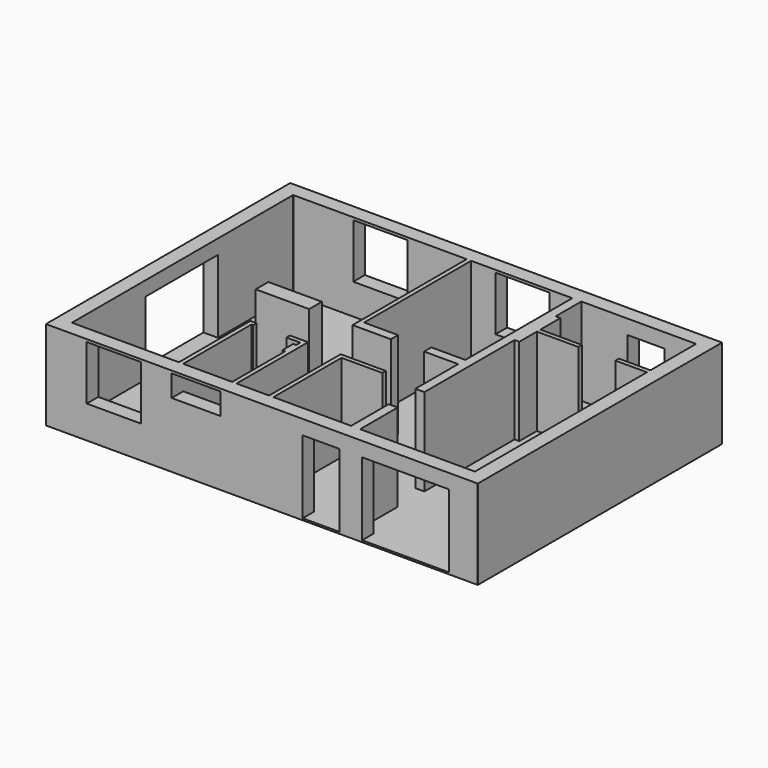
from build123d import *

# Parameters (mm, degrees)
F0_W     = 102
F0_H     = 40
F0_W_2   = 240
F0_W_3   = 94
F0_H_2   = 25
F0_W_4   = 148
F0_W_5   = 92
F0_W_6   = 120
F0_H_3   = 19
F0_W_7   = 25
F0_H_4   = 92
F0_H_5   = 12
F0_W_8   = 12
F0_H_6   = 370
F0_W_9   = 87.5
F0_H_7   = 130
F0_W_10  = 212.5
F0_W_11  = 115
F0_W_12  = 150
F0_W_13  = 135.5
F1_DEPTH = 5
F2_DEPTH = 247
F3_W     = 40
F3_H     = 250
F3_W_2   = 102
F3_H_2   = 40
F3_W_3   = 240
F4_DEPTH = 40
F6_W     = 150
F6_H     = 40
F7_DEPTH = 150
F8_W     = 135.5
F8_H     = 40
F9_DEPTH = 60
F10_R    = 1


with BuildPart() as f1:
    # F0 (on Top) → F1 (new body)
    with BuildSketch(Plane.XY):
        Polygon((1170, -25), (1170, 820), (1042.5, 820), (1042.5, 780), (1130, 780), (1130, 622), (1130, 610), (1130, 15), (1090, 15), (1090, -25), align=None)
        with Locations((991.5, 800)):
            Rectangle(F0_W, F0_H)
        Polygon((940.5, 780), (940.5, 820), (725, 820), (725, 780), (787.5, 780), (812.5, 780), align=None)
        Polygon((15, 520), (-25, 520), (-25, 270), (15, 270), (15, 385), (15, 410), align=None)
        Polygon((458.5, -25), (685.5, -25), (685.5, 15), (572.5, 15), (560.5, 15), (470.5, 15), (458.5, 15), align=None)
        Polygon((685.5, -25), (787.5, -25), (787.5, 0), (787.5, 15), (685.5, 15), align=None)
        Polygon((787.5, -25), (850, -25), (850, 15), (812.5, 15), (787.5, 15), (787.5, 0), align=None)
        with Locations((970, -5)):
            Rectangle(F0_W_2, F0_H)
        Polygon((850, 15), (1090, 15), (1130, 15), (1130, 610), (1042.5, 610), (940.5, 610), (825.5, 610), (825.5, 549), (812.5, 549), (812.5, 237), (812.5, 145), (812.5, 15), align=None)
        with Locations((740.5, 397.5)):
            Rectangle(F0_W_3, F0_H_2)
        with Locations((301.5, 397.5)):
            Rectangle(F0_W_4, F0_H_2)
        with Locations((647.5, 397.5)):
            Rectangle(F0_W_5, F0_H_2)
        Polygon((601.5, 410), (507.5, 410), (495.5, 410), (495.5, 385), (601.5, 385), align=None)
        with Locations((435.5, 397.5)):
            Rectangle(F0_W_6, F0_H_2)
        Polygon((825.5, 691), (812.5, 691), (812.5, 549), (825.5, 549), (825.5, 610), (825.5, 622), align=None)
        with Locations((301.5, 419.5)):
            Rectangle(F0_W_4, F0_H_3)
        Polygon((495.5, 780), (331.5, 780), (181.5, 780), (15, 780), (15, 520), (15, 410), (227.5, 410), (227.5, 429), (375.5, 429), (375.5, 410), (495.5, 410), align=None)
        Polygon((1130, 780), (1042.5, 780), (940.5, 780), (812.5, 780), (812.5, 691), (825.5, 691), (825.5, 622), (940.5, 622), (1042.5, 622), (1130, 622), align=None)
        Polygon((311, 15), (323, 15), (323, 250.5), (328, 250.5), (328, 262.5), (311, 262.5), align=None)
        Polygon((572.5, 15), (685.5, 15), (787.5, 15), (787.5, 145), (787.5, 237), (787.5, 385), (693.5, 385), (601.5, 385), (495.5, 385), (375.5, 385), (227.5, 385), (15, 385), (15, 270), (15, 15), (88, 15), (238, 15), (311, 15), (311, 262.5), (328, 262.5), (328, 250.5), (323, 250.5), (323, 15), (458.5, 15), (458.5, 198.5), (450.5, 198.5), (450.5, 236.2157330513), (458.5, 236.2157330513), (458.5, 250.5), (420, 250.5), (420, 262.5), (470.5, 262.5), (470.5, 15), (560.5, 15), (560.5, 262.5), (685.5, 262.5), (685.5, 250.5), (572.5, 250.5), align=None)
        Polygon((812.5, 691), (812.5, 780), (787.5, 780), (787.5, 410), (787.5, 385), (787.5, 237), (812.5, 237), (812.5, 549), align=None)
        with Locations((800, 191)):
            Rectangle(F0_W_7, F0_H_4)
        with Locations((991.5, 616)):
            Rectangle(F0_W, F0_H_5)
        Polygon((560.5, 15), (572.5, 15), (572.5, 250.5), (685.5, 250.5), (685.5, 262.5), (560.5, 262.5), align=None)
        with Locations((501.5, 595)):
            Rectangle(F0_W_8, F0_H_6)
        with Locations((1086.25, 616)):
            Rectangle(F0_W_9, F0_H_5)
        with Locations((800, 80)):
            Rectangle(F0_W_7, F0_H_7)
        with Locations((121.25, 397.5)):
            Rectangle(F0_W_10, F0_H_2)
        Polygon((458.5, 198.5), (458.5, 15), (470.5, 15), (470.5, 262.5), (420, 262.5), (420, 250.5), (458.5, 250.5), (458.5, 236.2157330513), (450.5, 236.2157330513), (450.5, 198.5), align=None)
        with Locations((883, 616)):
            Rectangle(F0_W_11, F0_H_5)
        Polygon((787.5, 780), (725, 780), (575, 780), (507.5, 780), (507.5, 410), (601.5, 410), (693.5, 410), (787.5, 410), align=None)
        Polygon((181.5, 780), (181.5, 820), (-25, 820), (-25, 520), (15, 520), (15, 780), align=None)
        with Locations((256.5, 800)):
            Rectangle(F0_W_12, F0_H)
        Polygon((575, 780), (575, 820), (331.5, 820), (331.5, 780), (495.5, 780), (507.5, 780), align=None)
        with Locations((650, 800)):
            Rectangle(F0_W_12, F0_H)
        Polygon((15, 270), (-25, 270), (-25, -25), (88, -25), (88, 15), (15, 15), align=None)
        with Locations((163, -5)):
            Rectangle(F0_W_12, F0_H)
        Polygon((238, -25), (323, -25), (323, 15), (311, 15), (238, 15), align=None)
        with Locations((390.75, -5)):
            Rectangle(F0_W_13, F0_H)
    extrude(amount=F1_DEPTH)

    # F0 (on Top) → F2 (join)
    with BuildSketch(Plane.XY):
        Polygon((1170, -25), (1170, 820), (1042.5, 820), (1042.5, 780), (1130, 780), (1130, 622), (1130, 610), (1130, 15), (1090, 15), (1090, -25), align=None)
        Polygon((940.5, 780), (940.5, 820), (725, 820), (725, 780), (787.5, 780), (812.5, 780), align=None)
        Polygon((458.5, -25), (685.5, -25), (685.5, 15), (572.5, 15), (560.5, 15), (470.5, 15), (458.5, 15), align=None)
        Polygon((787.5, -25), (850, -25), (850, 15), (812.5, 15), (787.5, 15), (787.5, 0), align=None)
        with Locations((800, 80)):
            Rectangle(F0_W_7, F0_H_7)
        Polygon((812.5, 691), (812.5, 780), (787.5, 780), (787.5, 410), (787.5, 385), (787.5, 237), (812.5, 237), (812.5, 549), align=None)
        Polygon((825.5, 691), (812.5, 691), (812.5, 549), (825.5, 549), (825.5, 610), (825.5, 622), align=None)
        with Locations((883, 616)):
            Rectangle(F0_W_11, F0_H_5)
        with Locations((1086.25, 616)):
            Rectangle(F0_W_9, F0_H_5)
        with Locations((740.5, 397.5)):
            Rectangle(F0_W_3, F0_H_2)
        Polygon((601.5, 410), (507.5, 410), (495.5, 410), (495.5, 385), (601.5, 385), align=None)
        with Locations((501.5, 595)):
            Rectangle(F0_W_8, F0_H_6)
        with Locations((301.5, 419.5)):
            Rectangle(F0_W_4, F0_H_3)
        with Locations((301.5, 397.5)):
            Rectangle(F0_W_4, F0_H_2)
        Polygon((311, 15), (323, 15), (323, 250.5), (328, 250.5), (328, 262.5), (311, 262.5), align=None)
        Polygon((458.5, 198.5), (458.5, 15), (470.5, 15), (470.5, 262.5), (420, 262.5), (420, 250.5), (458.5, 250.5), (458.5, 236.2157330513), (450.5, 236.2157330513), (450.5, 198.5), align=None)
        Polygon((560.5, 15), (572.5, 15), (572.5, 250.5), (685.5, 250.5), (685.5, 262.5), (560.5, 262.5), align=None)
        Polygon((15, 270), (-25, 270), (-25, -25), (88, -25), (88, 15), (15, 15), align=None)
        Polygon((238, -25), (323, -25), (323, 15), (311, 15), (238, 15), align=None)
        with Locations((390.75, -5)):
            Rectangle(F0_W_13, F0_H)
        with Locations((163, -5)):
            Rectangle(F0_W_12, F0_H)
        Polygon((181.5, 780), (181.5, 820), (-25, 820), (-25, 520), (15, 520), (15, 780), align=None)
        with Locations((256.5, 800)):
            Rectangle(F0_W_12, F0_H)
        Polygon((575, 780), (575, 820), (331.5, 820), (331.5, 780), (495.5, 780), (507.5, 780), align=None)
        with Locations((650, 800)):
            Rectangle(F0_W_12, F0_H)
    extrude(amount=F2_DEPTH)

    # F3 (on face) → F4 (join)
    with BuildSketch(Plane.XY.offset(247)):
        with Locations((-5, 395)):
            Rectangle(F3_W, F3_H)
        with Locations((736.5, -5)):
            Rectangle(F3_W_2, F3_H_2)
        with Locations((970, -5)):
            Rectangle(F3_W_3, F3_H_2)
        with Locations((991.5, 800)):
            Rectangle(F3_W_2, F3_H_2)
    extrude(amount=-F4_DEPTH)

    # F6 (on offset) → F7 (cut)
    with BuildSketch(Plane.XY.offset(90)):
        with Locations((650, 800)):
            Rectangle(F6_W, F6_H)
        with Locations((256.5, 800)):
            Rectangle(F6_W, F6_H)
        with Locations((163, -5)):
            Rectangle(F6_W, F6_H)
    extrude(amount=F7_DEPTH, mode=Mode.SUBTRACT)

    # F8 (on face) → F9 (cut)
    with BuildSketch(Plane(origin=(0, 0, 240), x_dir=(1, 0, 0), z_dir=(0, 0, -1))):
        with Locations((390.75, 5)):
            Rectangle(F8_W, F8_H)
    extrude(amount=F9_DEPTH, mode=Mode.SUBTRACT)

    # F10
    f10_edges = [f1.edges().sort_by_distance(p)[0] for p in [
        (-25, -25, 123.5),
        (1170, -25, 123.5),
        (1170, 820, 123.5),
        (-25, 820, 123.5),
        (1130, 15, 126),
        (15, 15, 126),
        (15, 780, 126),
        (1130, 780, 126),
    ]]
    fillet(f10_edges, radius=F10_R)


solid = f1.part
